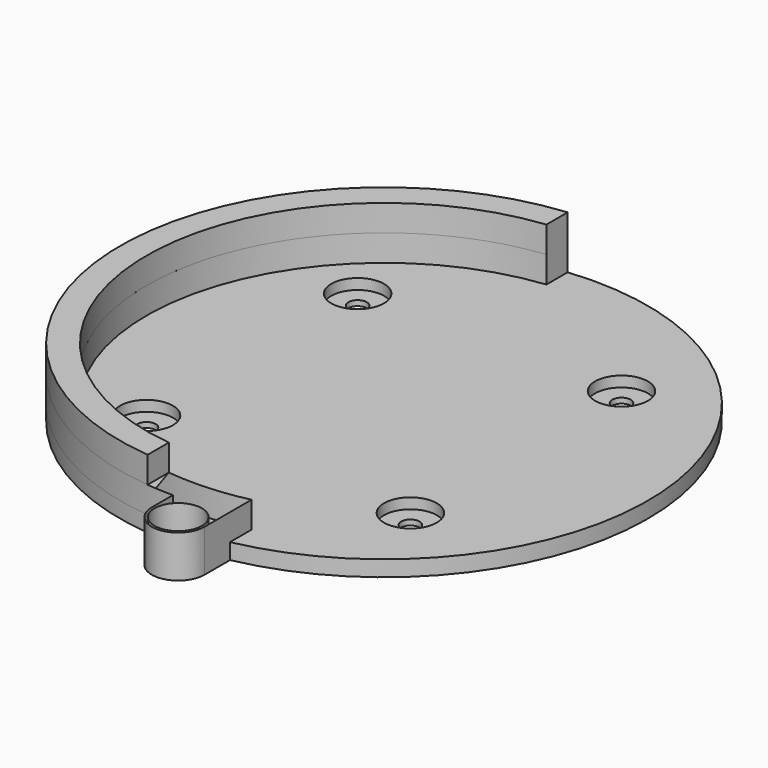
from build123d import *

# Parameters (mm, degrees)
PAD_DEPTH       = 3
PAD001_DEPTH    = 5
SKETCH010_R     = 4.5
POCKET001_DEPTH = 5
SKETCH011_R     = 3
POCKET002_DEPTH = 3
PAD004_DEPTH    = 5
SKETCH013_R     = 5
POCKET003_DEPTH = 2
SKETCH018_R     = 1.75
POCKET004_DEPTH = 1


with BuildPart() as part:
    # Sketch → Pad (new body)
    with BuildSketch(Plane.XY):
        with BuildLine():
            Line((0, -50), (0, -55))
            ThreePointArc((0, -55), (5, -60), (10, -55))
            Line((10, -48.989795), (10, -55))
            ThreePointArc((10, -48.989795), (-5.025448, 49.746808), (0, -50))
        make_face()
    extrude(amount=PAD_DEPTH)

    # Sketch001 (on Face6 of Pad) → Pad001 (join)
    with BuildSketch(Plane.XY.offset(3)):
        with BuildLine():
            Line((0, -50), (0, -55))
            ThreePointArc((0, -55), (5, -60), (10, -55))
            Line((10, -55), (10, -43.874822))
            ThreePointArc((-5, 44.72136), (-44.368579, -7.511934), (10, -43.874822))
            Line((-5, 44.72136), (-5, 49.749372))
            ThreePointArc((-5, 49.749372), (-49.937304, -2.503139), (0, -50))
        make_face()
    extrude(amount=PAD001_DEPTH)

    # Sketch010 (on Face10 of Pad001) → Pocket001 (cut)
    with BuildSketch(Plane.XY.offset(8)):
        with Locations((5, -55)):
            Circle(SKETCH010_R)
    extrude(amount=-POCKET001_DEPTH, mode=Mode.SUBTRACT)

    # Sketch011 (on Face15 of Pocket001) → Pocket002 (cut)
    with BuildSketch(Plane.XY.offset(3)):
        with Locations((5, -55)):
            Circle(SKETCH011_R)
    extrude(amount=-POCKET002_DEPTH, mode=Mode.SUBTRACT)

    # Sketch012 (on Face11 of Pocket002) → Pad004 (join)
    with BuildSketch(Plane.XY.offset(8)):
        with BuildLine():
            Line((-5, -49.749372), (-5, -44.72136))
            ThreePointArc((-5, 44.72136), (-45, 0), (-5, -44.72136))
            Line((-5, 49.749372), (-5, 44.72136))
            ThreePointArc((-5, 49.749372), (-50, 0), (-5, -49.749372))
        make_face()
    extrude(amount=PAD004_DEPTH)

    # Sketch013 (on Face7 of Pad004) → Pocket003 (cut)
    with BuildSketch(Plane.XY.offset(3)):
        with Locations((-25, 25)):
            Circle(SKETCH013_R)
        with Locations((25, -25)):
            Circle(SKETCH013_R)
        with Locations((25, 25)):
            Circle(SKETCH013_R)
        with Locations((-25, -25)):
            Circle(SKETCH013_R)
    extrude(amount=-POCKET003_DEPTH, mode=Mode.SUBTRACT)

    # Sketch018 (on Face27 of Pocket003) → Pocket004 (cut)
    with BuildSketch(Plane.XY.offset(1)):
        with Locations((-25, 25)):
            Circle(SKETCH018_R)
        with Locations((25, -25)):
            Circle(SKETCH018_R)
        with Locations((25, 25)):
            Circle(SKETCH018_R)
        with Locations((-25, -25)):
            Circle(SKETCH018_R)
    extrude(amount=-POCKET004_DEPTH, mode=Mode.SUBTRACT)


solid = part.part
